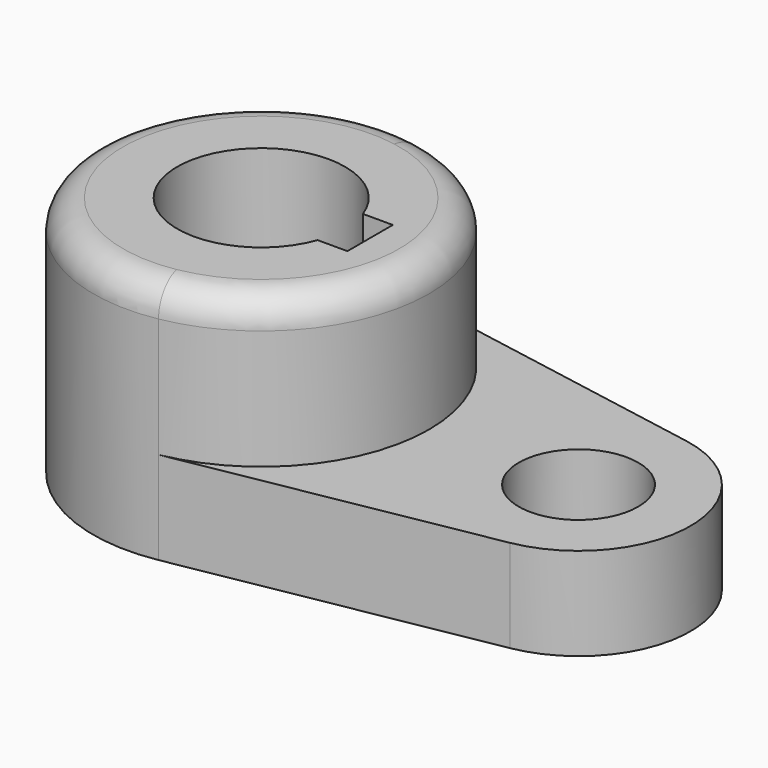
from build123d import *

# Parameters (mm, degrees)
F0_R     = 10.16
F1_DEPTH = 15.7734
F3_DEPTH = 25.4
F4_R     = 5.08


with BuildPart() as f1:
    # F0 (on Top) → F1 (new body)
    with BuildSketch(Plane.XY):
        with BuildLine():
            ThreePointArc((5.0426470588, -28.1265414802), (21.9160245563, -18.3362616868), (28.575, 0))
            ThreePointArc((28.575, 0), (21.9160245563, 18.3362616868), (5.0426470588, 28.1265414802))
            ThreePointArc((5.0426470588, 28.1265414802), (-28.575, 0), (5.0426470588, -28.1265414802))
        make_face()
        with BuildLine():
            ThreePointArc((13.4477648793, -4.826), (-14.2875, 0), (13.4477648793, 4.826))
            Line((13.4477648793, 4.826), (18.5293, 4.826))
            Line((18.5293, 4.826), (18.5293, -4.826))
            Line((18.5293, -4.826), (13.4477648793, -4.826))
        make_face(mode=Mode.SUBTRACT)
        with BuildLine():
            ThreePointArc((5.0426470588, 28.1265414802), (21.9160245563, 18.3362616868), (28.575, 0))
            ThreePointArc((28.575, 0), (21.9160245563, -18.3362616868), (5.0426470588, -28.1265414802))
            Line((5.0426470588, -28.1265414802), (57.3367647059, -18.7510276535))
            ThreePointArc((57.3367647059, -18.7510276535), (73.025, 0), (57.3367647059, 18.7510276535))
            Line((57.3367647059, 18.7510276535), (5.0426470588, 28.1265414802))
        make_face()
        with Locations((53.975, 0)):
            Circle(F0_R, mode=Mode.SUBTRACT)
    extrude(amount=F1_DEPTH)

    # F2 (on face) → F3 (join)
    with BuildSketch(Plane.XY.offset(15.7734)):
        with BuildLine():
            ThreePointArc((5.0426470588, -28.1265414802), (21.9160245563, -18.3362616868), (28.575, 0))
            ThreePointArc((28.575, 0), (21.9160245563, 18.3362616868), (5.0426470588, 28.1265414802))
            ThreePointArc((5.0426470588, 28.1265414802), (-28.575, 0), (5.0426470588, -28.1265414802))
        make_face()
        with BuildLine():
            Line((18.5293, -4.826), (13.4477648793, -4.826))
            ThreePointArc((13.4477648793, -4.826), (-14.2875, 0), (13.4477648793, 4.826))
            Line((13.4477648793, 4.826), (18.5293, 4.826))
            Line((18.5293, 4.826), (18.5293, -4.826))
        make_face(mode=Mode.SUBTRACT)
    extrude(amount=F3_DEPTH)

    # F4
    f4_edges = [f1.edges().sort_by_distance(p)[0] for p in [
        (-5.042647, 28.126541, 41.1734),
    ]]
    fillet(f4_edges, radius=F4_R)


solid = f1.part
